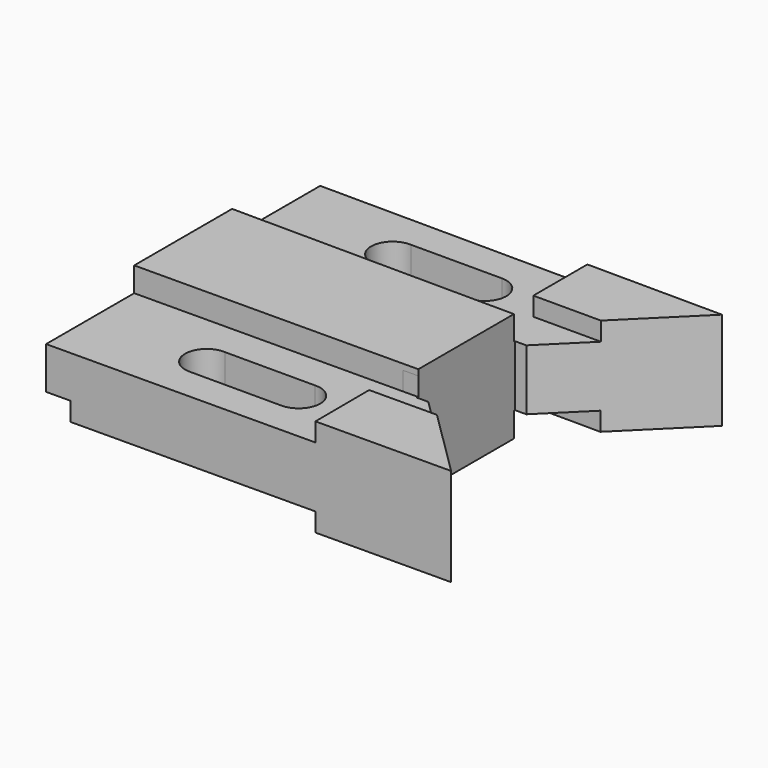
from build123d import *

# Parameters (mm, degrees)
F0_W      = 73.406
F0_H      = 15.875
F1_DEPTH  = 28.448
F2_W      = 35.052
F2_H      = 1.524
F3_DEPTH  = 28.575
F4_W      = 69.596
F4_H      = 6.35
F5_DEPTH  = 28.575
F7_DEPTH  = 4.826
F9_DEPTH  = 28.575
F11_DEPTH = 4.826
F13_DEPTH = 9.652
F15_DEPTH = 4.826
F17_DEPTH = 25.4
F18_W     = 11.049
F18_H     = 4.826
F19_DEPTH = 25.4
F21_DEPTH = 25.4


with BuildPart() as f1:
    # F0 (on Top) → F1 (new body)
    with BuildSketch(Plane.XY):
        Polygon((74.175101427, 28.0341930517), (-30.4715011545, 28.575), (-30.4715011545, 0), (42.9344988455, 0), (45.8496453135, 0), align=None)
        with Locations((6.2314988455, -7.9375)):
            Rectangle(F0_W, F0_H)
        Polygon((42.9344988455, -15.875), (-30.4715011545, -15.875), (-30.4715011545, -31.75), (-30.4715011545, -60.325), (74.175101427, -59.7841930517), (45.8496453135, -31.75), (42.9344988455, -31.75), align=None)
    extrude(amount=F1_DEPTH)

    # F2 (on face) → F3 (cut)
    with BuildSketch(Plane(origin=(0.3109336175, -60.1659183461, 0), x_dir=(0.9999866465, 0.005167867, 0), z_dir=(0.005167867, -0.9999866465, 0))):
        with Locations((56.3391541689, 27.686)):
            Rectangle(F2_W, F2_H)
        with Locations((56.3391541689, 0.762)):
            Rectangle(F2_W, F2_H)
    extrude(amount=-F3_DEPTH, mode=Mode.SUBTRACT)

    # F4 (on face) → F5 (cut)
    with BuildSketch(Plane(origin=(0.3109336175, -60.1659183461, 0), x_dir=(0.9999866465, 0.005167867, 0), z_dir=(0.005167867, -0.9999866465, 0))):
        with Locations((4.0151541689, 25.273)):
            Rectangle(F4_W, F4_H)
        Polygon((-24.4328458311, 11.176), (-30.7828458311, 11.176), (-30.7828458311, 0), (38.8131541689, 0), (38.8131541689, 6.35), (-24.4328458311, 6.35), align=None)
    extrude(amount=-F5_DEPTH, mode=Mode.SUBTRACT)

    # F6 (on face) → F7 (cut)
    with BuildSketch(Plane.XY.offset(26.924)):
        Polygon((42.9344988455, -31.75), (38.9777544369, -31.75), (39.0329974569, -42.4395711603), (56.5587634232, -42.3489991228), (45.8496453135, -31.75), align=None)
        Polygon((42.9344988455, -31.3702609057), (38.9758976941, -31.3907187032), (38.9777544369, -31.75), (42.9344988455, -31.75), align=None)
    extrude(amount=-F7_DEPTH, mode=Mode.SUBTRACT)

    # F8 (on face) → F9 (cut)
    with BuildSketch(Plane(origin=(0.1468560305, 28.4167662886, 0), x_dir=(-0.9999866465, 0.005167867, 0), z_dir=(0.005167867, 0.9999866465, 0))):
        Polygon((-48.6415103078, 28.448), (-74.0292339469, 28.448), (-74.0292339469, 26.924), (-48.6415103078, 26.924), (30.6187660531, 26.924), (30.6187660531, 28.448), align=None)
        Polygon((30.6187660531, 1.524), (-74.0292339469, 1.524), (-74.0292339469, 0), (-49.0522161126, 0), (30.6187660531, 0), align=None)
    extrude(amount=-F9_DEPTH, mode=Mode.SUBTRACT)

    # F10 (on face) → F11 (cut)
    with BuildSketch(Plane.XY.offset(26.924)):
        Polygon((39.1235694943, 10.6893371266), (39.1235694943, 28.2153371266), (-30.4715011545, 28.575), (-30.4715011545, -0.0003815818), (42.9344988455, -0.3797390943), (42.9344988455, 0), (45.8496453135, 0), (56.6500399995, 10.6893371266), align=None)
    extrude(amount=-F11_DEPTH, mode=Mode.SUBTRACT)

    # F12 (on face) → F13 (cut)
    with BuildSketch(Plane(origin=(0, 0, 1.524), x_dir=(1, 0, 0), z_dir=(0, 0, -1))):
        Polygon((-30.4715011545, 0.0003815818), (-30.4715011545, -28.575), (-24.1215859493, -28.5421840444), (-24.2692577495, 0.0324343789), align=None)
    extrude(amount=-F13_DEPTH, mode=Mode.SUBTRACT)

    # F14 (on face) → F15 (cut)
    with BuildSketch(Plane(origin=(0, 0, 1.524), x_dir=(1, 0, 0), z_dir=(0, 0, -1))):
        Polygon((38.9758976941, 0.3592812968), (-24.2692577495, 0.0324343789), (-24.1215859493, -28.5421840444), (39.1235694943, -28.2153371266), align=None)
    extrude(amount=-F15_DEPTH, mode=Mode.SUBTRACT)

    # F16 (on face) → F17 (cut)
    with BuildSketch(Plane(origin=(38.9767134639, -0.201429162, 0), x_dir=(-0.005167867, -0.9999866465, 0), z_dir=(-0.9999866465, 0.005167867, 0))):
        Polygon((0.1578542427, 6.35), (-0.2124354796, 6.35), (-10.8911457573, 6.35), (-10.8911457573, 1.524), (-0.2124354796, 1.524), (0.1578542427, 1.524), align=None)
    extrude(amount=-F17_DEPTH, mode=Mode.SUBTRACT)

    # F18 (on face) → F19 (cut)
    with BuildSketch(Plane(origin=(38.8126358769, 0.2005812195, 0), x_dir=(0.005167867, -0.9999866465, 0), z_dir=(-0.9999866465, -0.005167867, 0))):
        with Locations((37.1162217833, 3.937)):
            Rectangle(F18_W, F18_H)
    extrude(amount=-F19_DEPTH, mode=Mode.SUBTRACT)

    # F20 (on face) → F21 (cut)
    with BuildSketch(Plane.XY.offset(22.098)):
        with BuildLine():
            Line((0, -51.6199137252), (23.6292229191, -51.6253090635))
            ThreePointArc((23.6292229191, -51.6253090635), (29.2171637927, -45.9151668007), (23.384997691, -40.454704693))
            Line((23.384997691, -40.454704693), (0, -40.454704693))
            ThreePointArc((0, -40.454704693), (-5.8335011545, -46.0373092091), (0, -51.6199137252))
        make_face()
        with BuildLine():
            ThreePointArc((0, 19.870295307), (-5.8335011545, 14.2876907909), (0, 8.7050862748))
            Line((0, 8.7050862748), (23.384997691, 8.7050862748))
            ThreePointArc((23.384997691, 8.7050862748), (29.2171637927, 14.1655483825), (23.6292229191, 19.8756906452))
            Line((23.6292229191, 19.8756906452), (0, 19.870295307))
        make_face()
    extrude(amount=-F21_DEPTH, mode=Mode.SUBTRACT)


solid = f1.part
